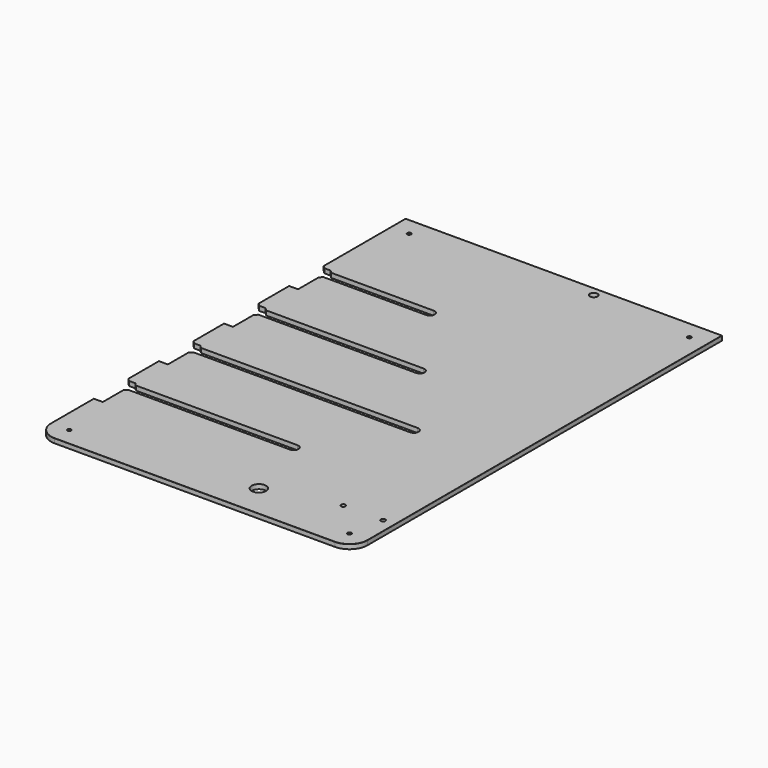
from build123d import *

# Parameters (mm, degrees)
SKETCH018_W           = 510
SKETCH018_H           = 350
PAD015_DEPTH          = 5
SKETCH019_R           = 8
SKETCH019_R_2         = 4.25
POCKET011_DEPTH       = 5.001
FILLET005_R           = 20
SKETCH020_R           = 2
POCKET012_DEPTH       = 5.001
CHAMFER009_SIZE       = 6
CHAMFER010_SIZE       = 0.1
CHAMFER011_SIZE       = 0.1
SKETCH052_W           = 45
SKETCH052_H           = 10
POCKET033_DEPTH       = 5.001
CHAMFER024_SIZE       = 2.99
SKETCH068_R           = 2.5
POCKET043_DEPTH       = 5.001
CLONE_PLACEMENT_ANGLE = 90


with BuildPart() as part:
    # Sketch018 → Pad015 (new body)
    with BuildSketch(Plane.XY):
        with Locations((-20, 41.2)):
            Rectangle(SKETCH018_W, SKETCH018_H)
    extrude(amount=PAD015_DEPTH)

    # Sketch019 (on Face6 of Pad015) → Pocket011 (cut, through all)
    with BuildSketch(Plane.XY.offset(5)):
        with Locations((-238, 0)):
            Circle(SKETCH019_R)
        with Locations((225, 0)):
            Circle(SKETCH019_R_2)
        with BuildLine():
            ThreePointArc((-164.573184, 24.404903), (-159.323184, 19.154903), (-154.073184, 24.404903))
            Line((-154.073184, 24.404903), (-154.073184, 216.2))
            ThreePointArc((-154.073184, 216.2), (-159.323184, 221.45), (-164.573184, 216.2))
            Line((-164.573184, 24.404903), (-164.573184, 216.2))
        make_face()
        with BuildLine():
            ThreePointArc((-74.573184, -36.417713), (-69.323184, -41.667713), (-64.073184, -36.417713))
            Line((-64.073184, -36.417713), (-64.073184, 216.2))
            ThreePointArc((-64.073184, 216.2), (-69.323184, 221.45), (-74.573184, 216.2))
            Line((-74.573184, -36.417713), (-74.573184, 216.2))
        make_face()
        with BuildLine():
            ThreePointArc((15.426816, 28.977719), (20.676816, 23.727719), (25.926816, 28.977719))
            Line((25.926816, 28.977719), (25.926816, 216.2))
            ThreePointArc((25.926816, 216.2), (20.676816, 221.45), (15.426816, 216.2))
            Line((15.426816, 28.977719), (15.426816, 216.2))
        make_face()
        with BuildLine():
            ThreePointArc((105.426816, 89.800335), (110.676816, 84.550335), (115.926816, 89.800335))
            Line((115.926816, 89.800335), (115.926816, 216.2))
            ThreePointArc((115.926816, 216.2), (110.676816, 221.45), (105.426816, 216.2))
            Line((105.426816, 89.800335), (105.426816, 216.2))
        make_face()
    extrude(amount=-POCKET011_DEPTH, mode=Mode.SUBTRACT)

    # Fillet005
    fillet005_edges = [part.edges().sort_by_distance(p)[0] for p in [
        (-275, 216.2, 2.5),
        (-275, -133.8, 2.5),
    ]]
    fillet(fillet005_edges, radius=FILLET005_R)

    # Sketch020 (on Face5 of Fillet005) → Pocket012 (cut, through all)
    with BuildSketch(Plane.XY.offset(5)):
        with Locations((-255, 196.2)):
            Circle(SKETCH020_R)
        with Locations((-255, -113.8)):
            Circle(SKETCH020_R)
        with Locations((215, -113.8)):
            Circle(SKETCH020_R)
        with Locations((215, 196.2)):
            Circle(SKETCH020_R)
    extrude(amount=-POCKET012_DEPTH, mode=Mode.SUBTRACT)

    # Chamfer009
    chamfer009_edges = [part.edges().sort_by_distance(p)[0] for p in [
        (-164.573184, 216.2, 2.5),
        (-154.073184, 216.2, 2.5),
        (-74.573184, 216.2, 2.5),
        (-64.073184, 216.2, 2.5),
        (15.426816, 216.2, 2.5),
        (25.926816, 216.2, 2.5),
        (105.426816, 216.2, 2.5),
        (115.926816, 216.2, 2.5),
    ]]
    chamfer(chamfer009_edges, length=CHAMFER009_SIZE)

    # Chamfer010
    chamfer010_edges = [part.edges().sort_by_distance(p)[0] for p in [
        (-212.786592, 216.2, 5),
        (-114.323184, 216.2, 5),
        (-24.323184, 216.2, 5),
        (65.676816, 216.2, 5),
        (178.463408, 216.2, 5),
    ]]
    chamfer(chamfer010_edges, length=CHAMFER010_SIZE)

    # Chamfer011
    chamfer011_edges = [part.edges().sort_by_distance(p)[0] for p in [
        (-257, 196.2, 5),
        (-257, -113.8, 5),
        (213, -113.8, 5),
        (213, 196.2, 5),
    ]]
    chamfer(chamfer011_edges, length=CHAMFER011_SIZE)

    # Sketch052 (on Face1 of Chamfer011) → Pocket033 (cut, through all)
    with BuildSketch(Plane.XY.offset(5)):
        with Locations((-173.573184, 211.2)):
            Rectangle(SKETCH052_W, SKETCH052_H)
        with Locations((-83.573184, 211.2)):
            Rectangle(SKETCH052_W, SKETCH052_H)
        with Locations((6.426816, 211.2)):
            Rectangle(SKETCH052_W, SKETCH052_H)
        with Locations((96.426816, 211.2)):
            Rectangle(SKETCH052_W, SKETCH052_H)
    extrude(amount=-POCKET033_DEPTH, mode=Mode.SUBTRACT)

    # Chamfer024
    chamfer024_edges = [part.edges().sort_by_distance(p)[0] for p in [
        (-164.573184, 206.2, 2.5),
        (-154.073184, 206.2, 2.5),
        (-74.573184, 206.2, 2.5),
        (-64.073184, 206.2, 2.5),
        (15.426816, 206.2, 2.5),
        (25.926816, 206.2, 2.5),
        (105.426816, 206.2, 2.5),
        (115.926816, 206.2, 2.5),
    ]]
    chamfer(chamfer024_edges, length=CHAMFER024_SIZE)

    # Sketch068 (on Face1 of Chamfer024) → Pocket043 (cut, through all)
    with BuildSketch(Plane.XY.offset(5)):
        with Locations((-217.5, -77)):
            Circle(SKETCH068_R)
        with Locations((-217.5, -121)):
            Circle(SKETCH068_R)
    extrude(amount=-POCKET043_DEPTH, mode=Mode.SUBTRACT)


with BuildPart() as part_1:
    # Body011 placement: moved
    add(part.part.moved(Location((0, 0, 10.25))))


with BuildPart() as part_2:
    # Clone placement: moved
    add(part_1.part.moved(Location((216.2, 275, -15.25))).rotate(Axis((216.2, 275, -15.25), (0, 0, 1)), CLONE_PLACEMENT_ANGLE))


solid = part_2.part
